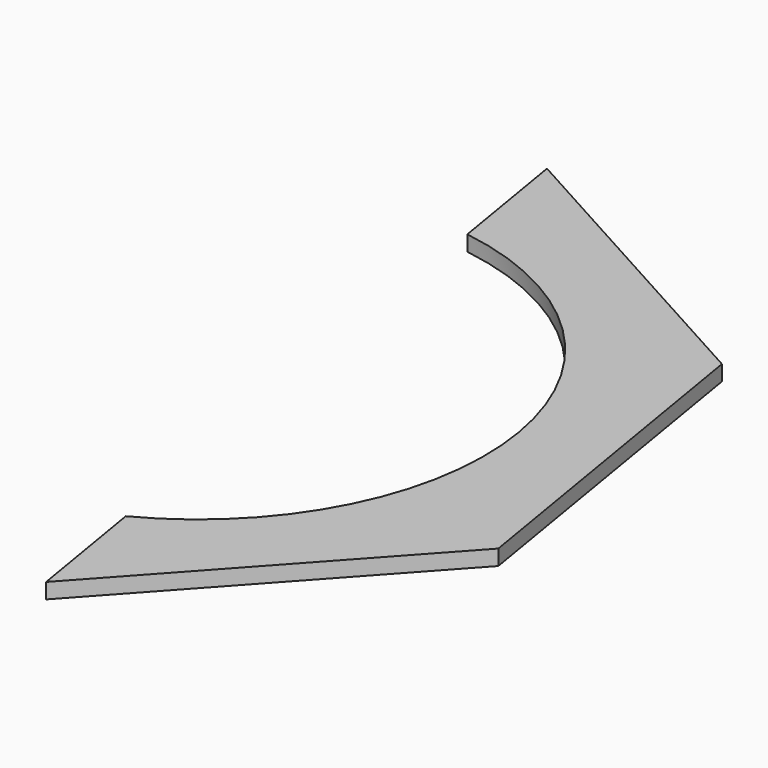
from build123d import *

# Parameters (mm, degrees)
F1_DEPTH = 38.1


with BuildPart() as f1:
    # F0 (on Top) → F1 (new body)
    with BuildSketch(Plane.XY):
        with BuildLine():
            ThreePointArc((105.616439, 703.314018), (701.583335, 116.560131), (327.360705, -631.379766))
            Line((327.360705, -631.379766), (379.072198, -942.634748))
            Line((379.072198, -942.634748), (974.617692, -287.012811))
            Line((974.617692, -287.012811), (829.453741, 586.738862))
            Line((829.453741, 586.738862), (53.904946, 1014.569001))
            Line((53.904946, 1014.569001), (105.616439, 703.314018))
        make_face()
    extrude(amount=F1_DEPTH)


solid = f1.part
